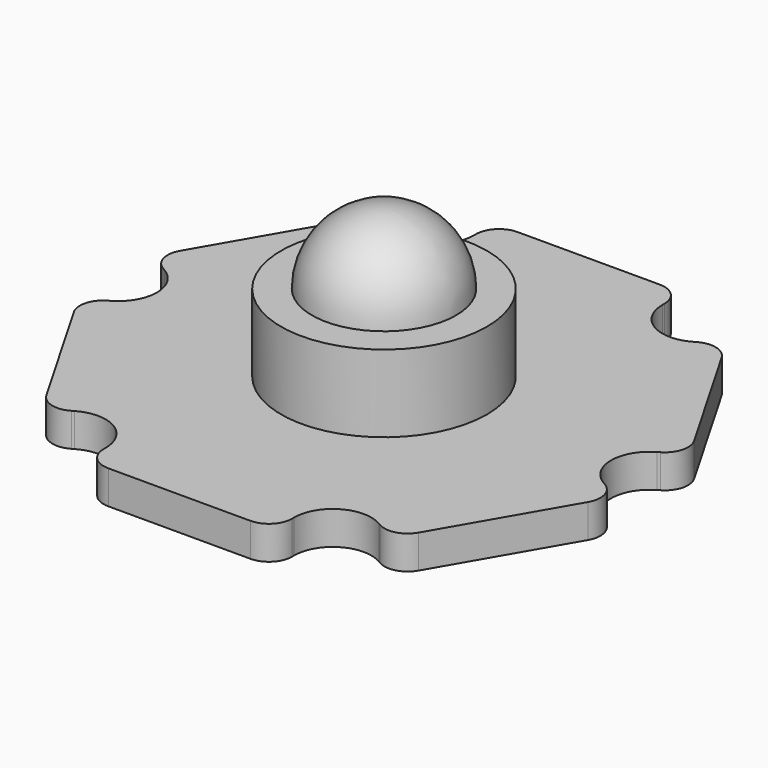
from build123d import *

# Parameters (mm, degrees)
PAD_DEPTH          = 1.3
POCKET_DEPTH       = 62.09103
POLARPATTERN_COUNT = 6
FILLET_R           = 0.9
SKETCH002_R        = 4
PAD001_DEPTH       = 3


with BuildPart() as ledbody001:
    # Sketch → Pad (new body)
    with BuildSketch(Plane.XY):
        Polygon((5.738862, -9.94), (11.477723, 0), (5.738862, 9.94), (-5.738862, 9.94), (-11.477723, 0), (-5.738862, -9.94), align=None)
    extrude(amount=PAD_DEPTH)

    # Sketch001 → Pocket (cut, through all)
    with BuildSketch(Plane.XY.offset(1.3)):
        with BuildLine():
            ThreePointArc((9.573023, 1.299038), (8.823023, 0), (9.573023, -1.299038))
            Line((14.005567, -3.858169), (9.573023, -1.299038))
            Line((14.005567, 3.858169), (14.005567, -3.858169))
            Line((9.573023, 1.299038), (14.005567, 3.858169))
        make_face()
    pocket = extrude(amount=-POCKET_DEPTH, mode=Mode.SUBTRACT)

    # PolarPattern: Pocket ×6 about axis
    polarpattern_axis = Axis((0, 0, 1.3), (0, 0, 1))
    for i in range(1, POLARPATTERN_COUNT):
        add(pocket.rotate(polarpattern_axis, i * 360 / POLARPATTERN_COUNT), mode=Mode.SUBTRACT)

    # Fillet
    fillet_edges = [ledbody001.edges().sort_by_distance(p)[0] for p in [
        (10.439048, -1.799038, 0.65),
        (6.777537, -8.140962, 0.65),
        (-3.661511, -9.94, 0.65),
        (-6.777537, -8.140962, 0.65),
        (-10.439048, -1.799038, 0.65),
        (-10.439048, 1.799038, 0.65),
        (-6.777537, 8.140962, 0.65),
        (-3.661511, 9.94, 0.65),
        (3.661511, 9.94, 0.65),
        (6.777537, 8.140962, 0.65),
        (10.439048, 1.799038, 0.65),
        (3.661511, -9.94, 0.65),
    ]]
    fillet(fillet_edges, radius=FILLET_R)

    # Sketch002 → Pad001 (new body)
    with BuildSketch(Plane.XY.offset(1.3)):
        Circle(SKETCH002_R)
    extrude(amount=PAD001_DEPTH)


with BuildPart() as ledballfusion:
    # Sphere → Sphere (revolve)
    with BuildSketch(Plane(origin=(0, 0, 4.3), x_dir=(1, 0, 0), z_dir=(0, -1, 0))):
        with BuildLine():
            ThreePointArc((0, -2.8), (2.8, 0), (0, 2.8))
            Line((0, 2.8), (0, -2.8))
        make_face()
    revolve(axis=Axis((0, 0, 4.3), (0, 0, 1)))

    # Fusion: union LEDBody001
    add(ledbody001.part)


with BuildPart() as aluled:
    # Clone base: copy of LEDballFusion
    add(ledballfusion.part)


solid = Compound([ledballfusion.part, aluled.part])
